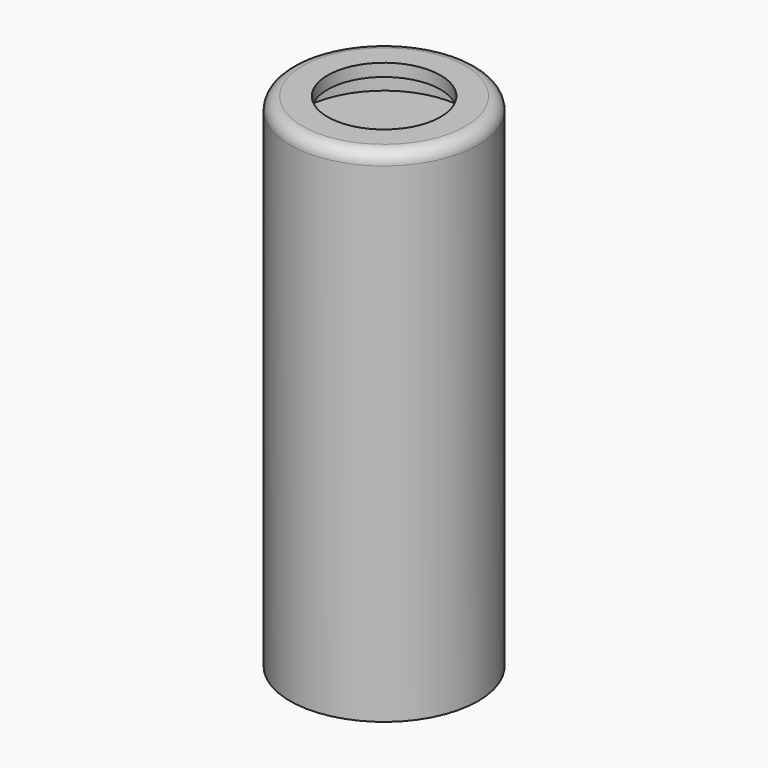
from build123d import *

# Parameters (mm, degrees)
SKETCH053_R     = 3.75
PAD026_DEPTH    = 20
SKETCH054_R     = 2.25
POCKET018_DEPTH = 0.5
SKETCH050_R     = 3.25
POCKET016_DEPTH = 1
FILLET007_R     = 0.5


with BuildPart() as part:
    # Sketch053 → Pad026 (new body)
    with BuildSketch(Plane.XY):
        Circle(SKETCH053_R)
    extrude(amount=PAD026_DEPTH)

    # Sketch054 (on Face3 of Pad026) → Pocket018 (cut)
    with BuildSketch(Plane.XY.offset(20)):
        Circle(SKETCH054_R)
    extrude(amount=-POCKET018_DEPTH, mode=Mode.SUBTRACT)

    # Sketch050 (on Face5 of Pocket018) → Pocket016 (cut)
    with BuildSketch(Plane.XY.offset(19.5)):
        Circle(SKETCH050_R)
    extrude(amount=-POCKET016_DEPTH, mode=Mode.SUBTRACT)

    # Fillet007
    fillet007_edges = [part.edges().sort_by_distance(p)[0] for p in [
        (-3.75, 0, 20),
    ]]
    fillet(fillet007_edges, radius=FILLET007_R)


solid = part.part
